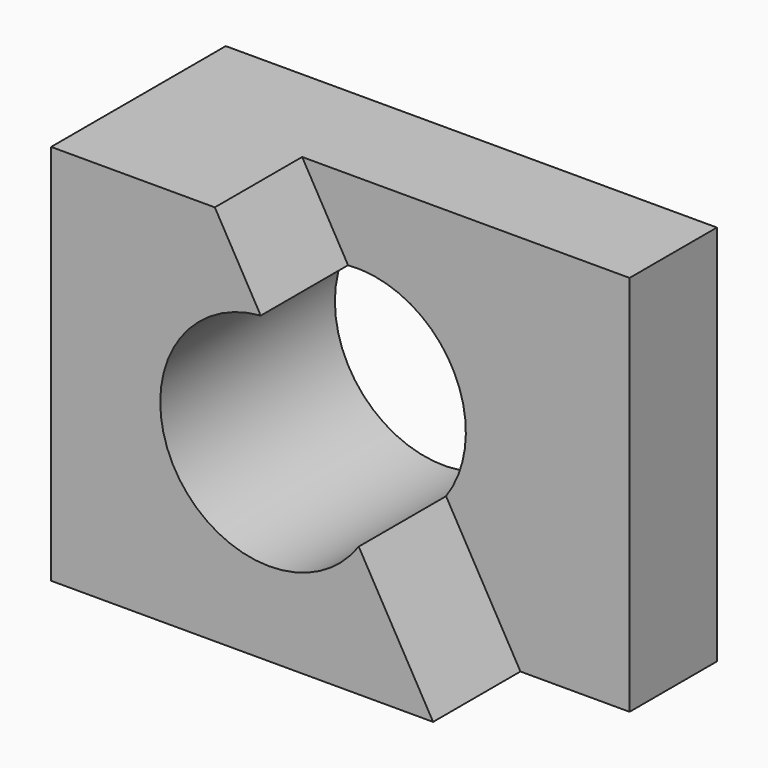
from build123d import *

# Parameters (mm, degrees)
F0_W     = 57.15
F0_H     = 25.4
F1_DEPTH = 44.45
F3_DEPTH = 12.7
F4_R     = 12.7
F5_DEPTH = 25.4


with BuildPart() as f1:
    # F0 (on Top) → F1 (new body)
    with BuildSketch(Plane.XY):
        with Locations((28.575, 12.7)):
            Rectangle(F0_W, F0_H)
    extrude(amount=F1_DEPTH)

    # F2 (on face) → F3 (cut)
    with BuildSketch(Plane.XZ):
        Polygon((57.15, 44.45), (19.05, 44.45), (44.45, 0), (57.15, 0), align=None)
    extrude(amount=-F3_DEPTH, mode=Mode.SUBTRACT)

    # F4 (on face) → F5 (cut)
    with BuildSketch(Plane(origin=(0, 25.4, 0), x_dir=(-1, 0, 0), z_dir=(0, 1, 0))):
        with Locations((-25.4, 22.439942)):
            Circle(F4_R)
    extrude(amount=-F5_DEPTH, mode=Mode.SUBTRACT)


solid = f1.part
